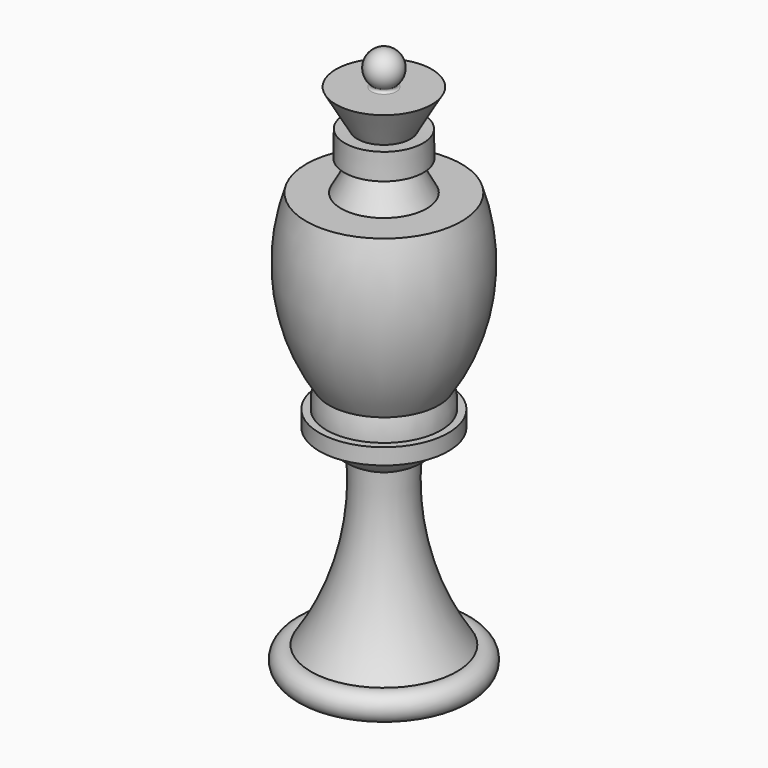
from build123d import *

# Parameters (mm, degrees)
F2_R = 0.24341


with BuildPart() as f1:
    # F0 (on Front) → F1 (revolve)
    with BuildSketch(Plane.XZ):
        with BuildLine():
            Line((0, 54.552992), (0, 54.588102))
            Line((0, 54.588102), (-0.363152, 54.588102))
            ThreePointArc((-0.363152, 54.588102), (-0.182423, 54.56179), (0, 54.552992))
        make_face()
        with BuildLine():
            Line((0, 54.588102), (0, 58.3443))
            ThreePointArc((0, 58.3443), (-1.886856, 56.631069), (-0.363152, 54.588102))
            Line((-0.363152, 54.588102), (0, 54.588102))
        make_face()
        with BuildLine():
            ThreePointArc((0, 54.552992), (-0.182423, 54.56179), (-0.363152, 54.588102))
            Line((-0.363152, 54.588102), (-5.320862, 54.588102))
            Line((-5.320862, 54.588102), (-2.956035, 50.449654))
            Line((-2.956035, 50.449654), (-4.354538, 50.49821))
            Line((-4.354538, 50.49821), (-4.396097, 47.622747))
            Line((-4.396097, 47.622747), (-2.956035, 47.561076))
            Line((-2.956035, 47.561076), (-4.767749, 44.234589))
            Line((-4.767749, 44.234589), (-8.634677, 44.234589))
            ThreePointArc((-8.634677, 44.234589), (-9.58101, 34.531679), (-6.109138, 25.421899))
            ThreePointArc((-6.109138, 25.421899), (-6.359965, 24.251731), (-6.361037, 23.054982))
            Line((-6.361037, 23.054982), (-7.173166, 23.054982))
            Line((-7.173166, 23.054982), (-7.173166, 21.267986))
            Line((-7.173166, 21.267986), (-5.871421, 21.267986))
            ThreePointArc((-5.871421, 21.267986), (-4.804897, 19.70099), (-3.283653, 18.570167))
            ThreePointArc((-3.283653, 18.570167), (-4.124919, 8.875966), (-8.112709, 0))
            ThreePointArc((-8.112709, 0), (-9.882268, -0.870755), (-9.261039, -2.742553))
            Line((-9.261039, -2.742553), (0, -2.742553))
            Line((0, -2.742553), (0, 54.552992))
        make_face()
    revolve(axis=Axis((0, 0, 23.191833), (0, 0, -1)))

    # F2
    f2_edges = [f1.edges().sort_by_distance(p)[0] for p in [
        (0.363152, 0, 54.588102),
    ]]
    fillet(f2_edges, radius=F2_R)


solid = f1.part
